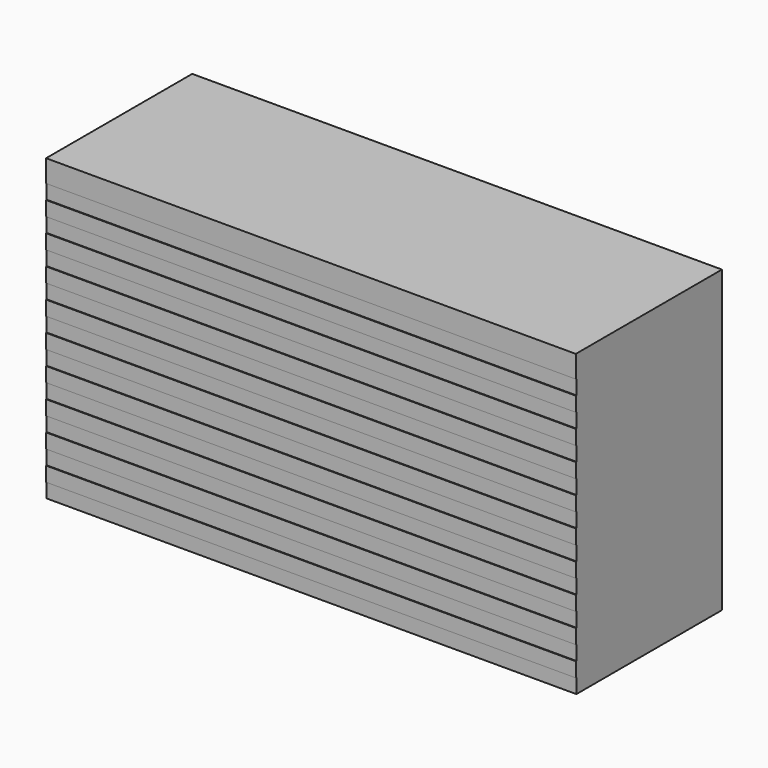
from build123d import *

# Parameters (mm, degrees)
F0_W     = 72.508016
F0_H     = 41.042272
F1_DEPTH = 25
F2_W     = 72.508016
F2_H     = 2
F3_DEPTH = 0.1


with BuildPart() as f1:
    # F0 (on Front) → F1 (new body)
    with BuildSketch(Plane.XZ):
        with Locations((10.26057, -0.684036)):
            Rectangle(F0_W, F0_H)
    extrude(amount=F1_DEPTH)

    # F2 (on face) → F3 (cut)
    with BuildSketch(Plane.XZ.offset(25)):
        with Locations((10.26057, -20.205172)):
            Rectangle(F2_W, F2_H)
        with Locations((10.26057, -16.205172)):
            Rectangle(F2_W, F2_H)
        with Locations((10.26057, -12.205172)):
            Rectangle(F2_W, F2_H)
        with Locations((10.26057, -8.205172)):
            Rectangle(F2_W, F2_H)
        with Locations((10.26057, -4.205172)):
            Rectangle(F2_W, F2_H)
        with Locations((10.26057, -0.205172)):
            Rectangle(F2_W, F2_H)
        with Locations((10.26057, 3.794828)):
            Rectangle(F2_W, F2_H)
        with Locations((10.26057, 7.794828)):
            Rectangle(F2_W, F2_H)
        with Locations((10.26057, 11.794828)):
            Rectangle(F2_W, F2_H)
        with Locations((10.26057, 15.794828)):
            Rectangle(F2_W, F2_H)
    extrude(amount=-F3_DEPTH, mode=Mode.SUBTRACT)


solid = f1.part
